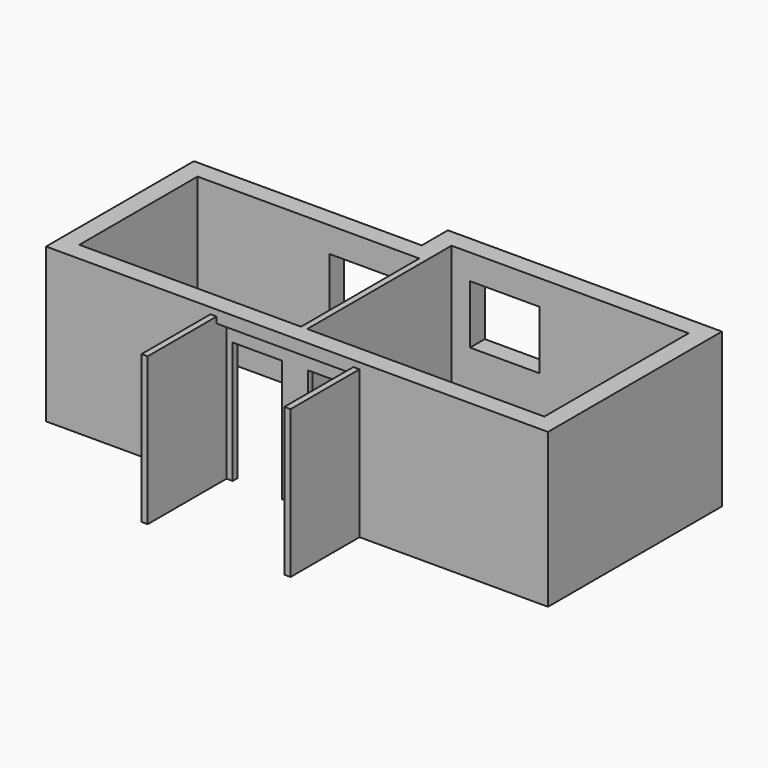
from build123d import *

# Parameters (mm, degrees)
F0_W      = 36
F0_H      = 24
F1_DEPTH  = 25
F2_W      = 1
F2_H      = 17
F3_DEPTH  = 24
F4_W      = 22.2
F4_H      = 23
F5_DEPTH  = 2
F6_W      = 8
F6_H      = 19.8
F7_DEPTH  = 1
F8_W      = 12.6
F8_H      = 13.4
F9_DEPTH  = 3
F10_W     = 11.3
F10_H     = 9.5
F11_DEPTH = 3


with BuildPart() as f1:
    # F0 (on Top) → F1 (new body)
    with BuildSketch(Plane.XY):
        Polygon((34, 32.3), (34, 27), (-3, 27), (-3, -3), (78.5, -3), (78.5, 32.3), align=None)
        with Locations((18, 12)):
            Rectangle(F0_W, F0_H, mode=Mode.SUBTRACT)
        Polygon((75.5, 29.3), (75.5, 0), (37, 0), (37, 24), (37, 29.3), align=None, mode=Mode.SUBTRACT)
    extrude(amount=F1_DEPTH)

    # F2 (on face) → F3 (join)
    with BuildSketch(Plane(origin=(0, 0, 0), x_dir=(1, 0, 0), z_dir=(0, 0, -1))):
        with Locations((24.2, 8.5)):
            Rectangle(F2_W, F2_H)
        with Locations((47.4, 8.5)):
            Rectangle(F2_W, F2_H)
    extrude(amount=-F3_DEPTH)

    # F4 (on face) → F5 (cut)
    with BuildSketch(Plane.XZ.offset(3)):
        with Locations((35.8, 11.5)):
            Rectangle(F4_W, F4_H)
    extrude(amount=-F5_DEPTH, mode=Mode.SUBTRACT)

    # F6 (on face) → F7 (cut, through all)
    with BuildSketch(Plane.XZ.offset(1)):
        with Locations((41.9, 9.9)):
            Rectangle(F6_W, F6_H)
        with Locations((29.7, 9.9)):
            Rectangle(F6_W, F6_H)
    extrude(amount=-F7_DEPTH, mode=Mode.SUBTRACT)

    # F8 (on face) → F9 (cut, through all)
    with BuildSketch(Plane(origin=(0, 27, 0), x_dir=(-1, 0, 0), z_dir=(0, 1, 0))):
        with Locations((-27.7, 14.2)):
            Rectangle(F8_W, F8_H)
    extrude(amount=-F9_DEPTH, mode=Mode.SUBTRACT)

    # F10 (on face) → F11 (cut, through all)
    with BuildSketch(Plane(origin=(0, 32.3, 0), x_dir=(-1, 0, 0), z_dir=(0, 1, 0))):
        with Locations((-45.65, 16.15)):
            Rectangle(F10_W, F10_H)
    extrude(amount=-F11_DEPTH, mode=Mode.SUBTRACT)


solid = f1.part
